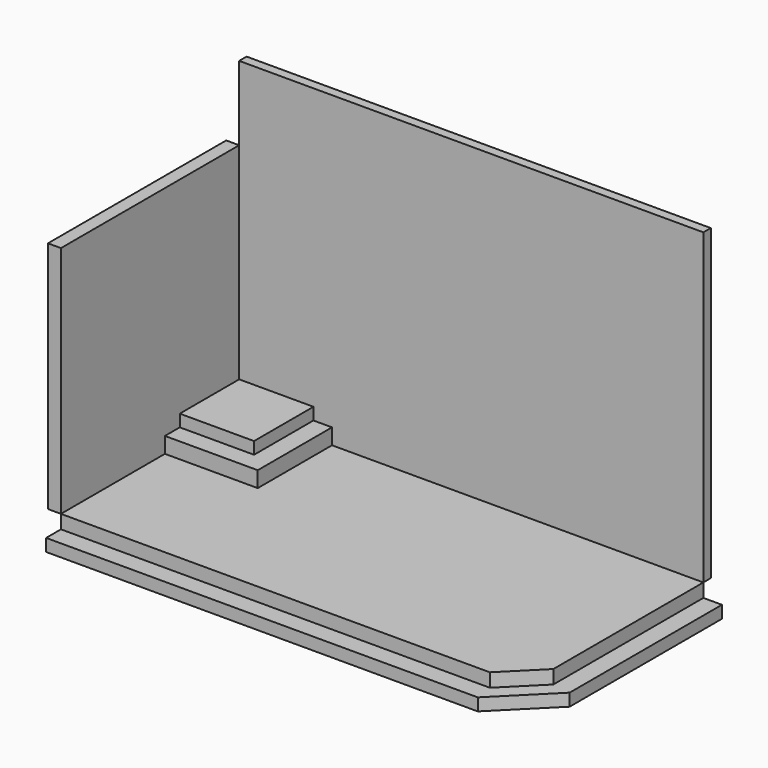
from build123d import *

# Parameters (mm, degrees)
F0_W      = 7620
F0_H      = 3657.6
F1_DEPTH  = 426.72
F2_SIZE   = 579.12
F4_DEPTH  = 203.2
F5_SIZE   = 838.2
F6_W      = 1219.2
F6_H      = 1219.2
F7_DEPTH  = 457.2
F8_W      = 1524
F8_H      = 1524
F9_DEPTH  = 685.8
F11_DEPTH = 152.4
F13_DEPTH = 213.36


with BuildPart() as f1:
    # F0 (on Top) → F1 (new body)
    with BuildSketch(Plane.XY):
        Rectangle(F0_W, F0_H)
    extrude(amount=F1_DEPTH)

    # F2
    f2_edges = [f1.edges().sort_by_distance(p)[0] for p in [
        (3810, -1828.8, 213.36),
    ]]
    chamfer(f2_edges, length=F2_SIZE)

    # F3 (on face) → F4 (join)
    with BuildSketch(Plane(origin=(0, 0, 0), x_dir=(1, 0, 0), z_dir=(0, 0, -1))):
        Polygon((3810, 1249.68), (3810, -1828.8), (4114.8, -1828.8), (4114.8, 2133.6), (-3810, 2133.6), (-3810, 1828.8), (3230.88, 1828.8), align=None)
    extrude(amount=-F4_DEPTH)

    # F5
    f5_edges = [f1.edges().sort_by_distance(p)[0] for p in [
        (4114.8, -2133.6, 101.6),
    ]]
    chamfer(f5_edges, length=F5_SIZE)

    # F6 (on face) → F7 (join)
    with BuildSketch(Plane.XY.offset(426.72)):
        with Locations((-3200.4, 1219.2)):
            Rectangle(F6_W, F6_H)
    extrude(amount=F7_DEPTH)

    # F8 (on face) → F9 (join)
    with BuildSketch(Plane(origin=(0, 0, 0), x_dir=(1, 0, 0), z_dir=(0, 0, -1))):
        with Locations((-3048, -1066.8)):
            Rectangle(F8_W, F8_H)
    extrude(amount=-F9_DEPTH)


with BuildPart() as f11:
    # F10 (on face) → F11 (new body)
    with BuildSketch(Plane(origin=(0, 1828.8, 0), x_dir=(-1, 0, 0), z_dir=(0, 1, 0))):
        Polygon((2590.8, 883.92), (3810, 883.92), (3810, 5486.4), (-3810, 5486.4), (-3810, 426.72), (2286, 426.72), (2286, 685.8), (2590.8, 685.8), align=None)
    extrude(amount=F11_DEPTH)


with BuildPart() as f13:
    # F12 (on face) → F13 (new body)
    with BuildSketch(Plane(origin=(-3810, 0, 0), x_dir=(0, -1, 0), z_dir=(-1, 0, 0))):
        Polygon((-1828.8, 4267.2), (-1828.8, 883.92), (-609.6, 883.92), (-609.6, 685.8), (-304.8, 685.8), (-304.8, 426.72), (1828.8, 426.72), (1828.8, 4267.2), align=None)
    extrude(amount=F13_DEPTH)


solid = Compound([f1.part, f11.part, f13.part])
